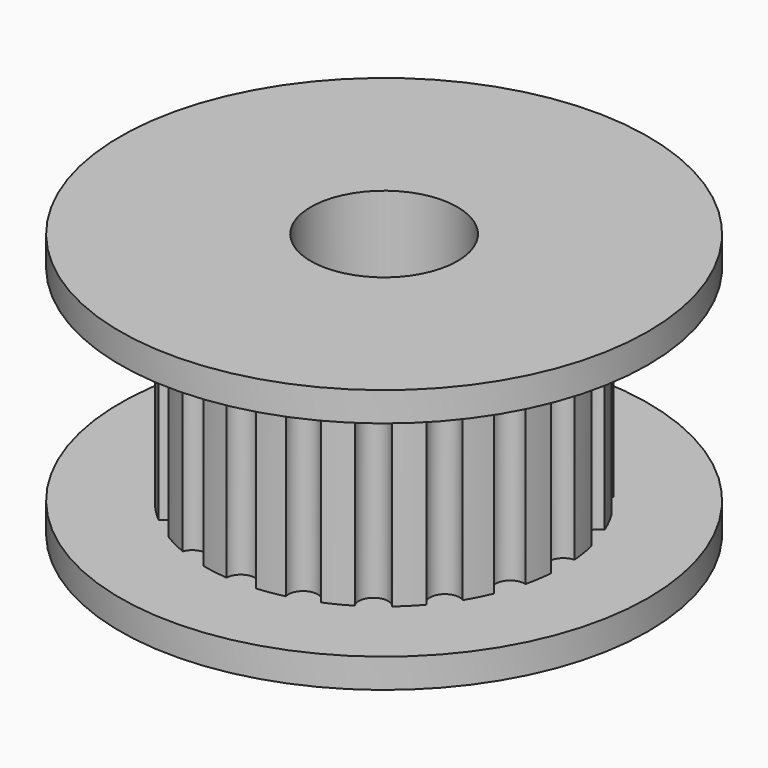
from build123d import *

# Parameters (mm, degrees)
SKETCH_R           = 9
PAD_DEPTH          = 9
SKETCH001_W        = 2.89
SKETCH001_H        = 7
SKETCH002_R        = 2.5
POCKET_DEPTH       = 9.001
POCKET001_DEPTH    = 7
POLARPATTERN_COUNT = 20


with BuildPart() as part:
    # Sketch → Pad (new body)
    with BuildSketch(Plane.XY):
        Circle(SKETCH_R)
    extrude(amount=PAD_DEPTH)

    # Sketch001 → Groove (revolve, cut)
    with BuildSketch(Plane.XZ):
        with Locations((7.555, 4.5)):
            Rectangle(SKETCH001_W, SKETCH001_H)
    revolve(axis=Axis((0, 0, 0), (0, 0, 1)), mode=Mode.SUBTRACT)

    # Sketch002 (on Face7 of Groove) → Pocket (cut, through all)
    with BuildSketch(Plane.XY.offset(9)):
        Circle(SKETCH002_R)
    extrude(amount=-POCKET_DEPTH, mode=Mode.SUBTRACT)

    # Sketch003 (on Face3 of Groove) → Pocket001 (cut)
    with BuildSketch(Plane.XY.offset(1)):
        with BuildLine():
            ThreePointArc((6.089542, 0.499581), (5.61, 0), (6.089542, -0.499581))
            ThreePointArc((6.089542, -0.499581), (6.11, 0), (6.089542, 0.499581))
        make_face()
    pocket001 = extrude(amount=POCKET001_DEPTH, mode=Mode.SUBTRACT)

    # PolarPattern: Pocket001 ×20 about axis
    polarpattern_axis = Axis((0, 0, 1), (0, 0, 1))
    for i in range(1, POLARPATTERN_COUNT):
        add(pocket001.rotate(polarpattern_axis, i * 360 / POLARPATTERN_COUNT), mode=Mode.SUBTRACT)


solid = part.part
